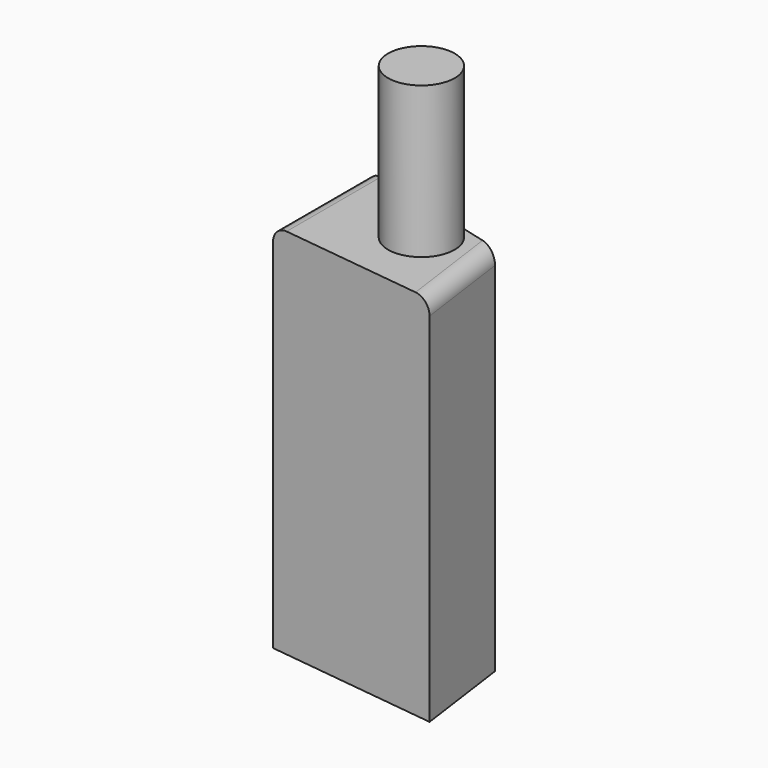
from build123d import *

# Parameters (mm, degrees)
F1_DEPTH = 125.222
F2_R     = 5.08
F3_R     = 5.08
F4_R     = 11.212444
F5_DEPTH = 50.8


with BuildPart() as f1:
    # F0 (on Top) → F1 (new body)
    with BuildSketch(Plane.XY):
        Polygon((24.802748, 19.800747), (-28.966488, 33.822093), (-28.966488, -6.352786), (29.399224, -13.475696), align=None)
    extrude(amount=F1_DEPTH)

    # F2
    f2_edges = [f1.edges().sort_by_distance(p)[0] for p in [
        (27.100986, 3.162526, 125.222),
    ]]
    fillet(f2_edges, radius=F2_R)

    # F3
    f3_edges = [f1.edges().sort_by_distance(p)[0] for p in [
        (-28.966488, 13.734654, 125.222),
    ]]
    fillet(f3_edges, radius=F3_R)

    # F4 (on face) → F5 (join)
    with BuildSketch(Plane.XY.offset(125.222)):
        with Locations((5.875811, 12.488189)):
            Circle(F4_R)
    extrude(amount=F5_DEPTH)


solid = f1.part
